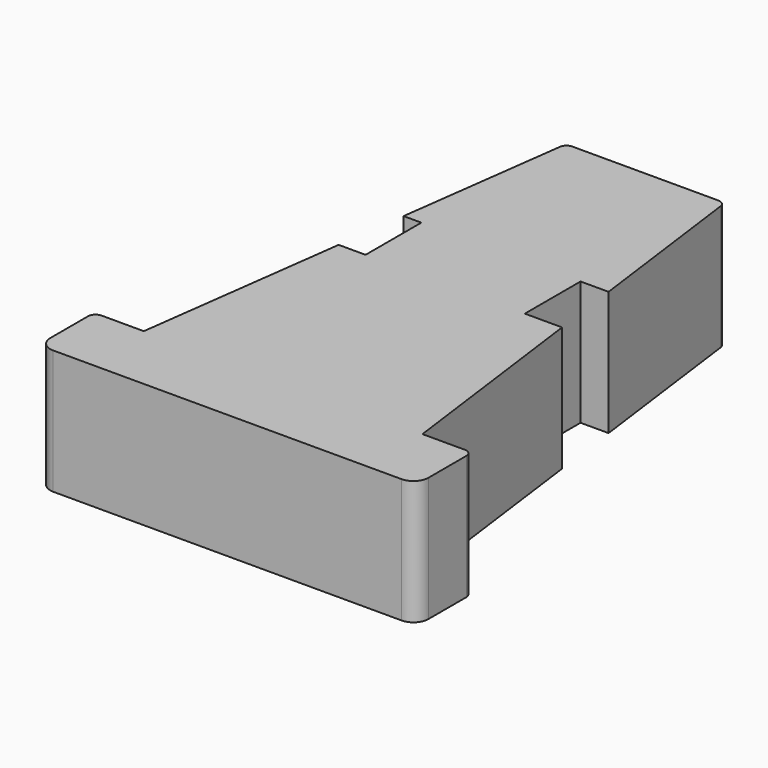
from build123d import *

# Parameters (mm, degrees)
F1_DEPTH = 25


with BuildPart() as f1:
    # F0 (on Top) → F1 (new body)
    with BuildSketch(Plane.XY):
        with BuildLine():
            ThreePointArc((-49.571264, -40.496381), (-48.692584, -42.617702), (-46.571264, -43.496381))
            Line((-46.571264, -43.496381), (-39.571264, -43.496381))
            Line((-39.571264, -43.496381), (-27.571264, -43.496381))
            Line((-27.571264, -43.496381), (-11.571264, -43.496381))
            Line((-11.571264, -43.496381), (-11.571264, 12.504975))
            Line((-11.571264, 12.504975), (-28.604711, 12.504975))
            Line((-28.604711, 12.504975), (-34.020273, 12.504975))
            Line((-34.020273, 12.504975), (-39.571264, -29.496381))
            Line((-39.571264, -29.496381), (-48.071264, -29.496381))
            ThreePointArc((-48.071264, -29.496381), (-49.131924, -29.935721), (-49.571264, -30.996381))
            Line((-49.571264, -30.996381), (-49.571264, -40.496381))
        make_face()
        with BuildLine():
            Line((-11.571264, 12.504975), (-11.571264, -43.496381))
            Line((-11.571264, -43.496381), (4.428736, -43.496381))
            Line((4.428736, -43.496381), (16.428736, -43.496381))
            Line((16.428736, -43.496381), (23.428736, -43.496381))
            ThreePointArc((23.428736, -43.496381), (25.550056, -42.617702), (26.428736, -40.496381))
            Line((26.428736, -40.496381), (26.428736, -30.996381))
            ThreePointArc((26.428736, -30.996381), (25.989396, -29.935721), (24.928736, -29.496381))
            Line((24.928736, -29.496381), (16.428736, -29.496381))
            Line((16.428736, -29.496381), (10.877745, 12.504975))
            Line((10.877745, 12.504975), (3.395289, 12.504975))
            Line((3.395289, 12.504975), (-11.571264, 12.504975))
        make_face()
        with BuildLine():
            Line((-28.604711, 12.504975), (-11.571264, 12.504975))
            Line((-11.571264, 12.504975), (-11.571264, 61.503619))
            Line((-11.571264, 61.503619), (-26.229704, 61.503619))
            ThreePointArc((-26.229704, 61.503619), (-27.21844, 61.131626), (-27.716773, 60.200153))
            Line((-27.716773, 60.200153), (-32.170002, 26.504975))
            Line((-32.170002, 26.504975), (-28.604711, 26.504975))
            Line((-28.604711, 26.504975), (-28.604711, 12.504975))
        make_face()
        Polygon((-11.571264, 61.503619), (-11.571264, 12.504975), (3.395289, 12.504975), (3.395289, 26.504975), (3.087176, 61.503619), align=None)
        with BuildLine():
            ThreePointArc((4.574245, 60.200153), (4.075913, 61.131626), (3.087176, 61.503619))
            Line((3.087176, 61.503619), (3.395289, 26.504975))
            Line((3.395289, 26.504975), (9.027474, 26.504975))
            Line((9.027474, 26.504975), (4.574245, 60.200153))
        make_face()
        with BuildLine():
            ThreePointArc((-49.571264, -40.496381), (-48.692584, -42.617702), (-46.571264, -43.496381))
            Line((-46.571264, -43.496381), (-39.571264, -43.496381))
            Line((-39.571264, -43.496381), (-27.571264, -43.496381))
            Line((-27.571264, -43.496381), (-11.571264, -43.496381))
            Line((-11.571264, -43.496381), (-11.571264, 12.504975))
            Line((-11.571264, 12.504975), (-28.604711, 12.504975))
            Line((-28.604711, 12.504975), (-34.020273, 12.504975))
            Line((-34.020273, 12.504975), (-39.571264, -29.496381))
            Line((-39.571264, -29.496381), (-48.071264, -29.496381))
            ThreePointArc((-48.071264, -29.496381), (-49.131924, -29.935721), (-49.571264, -30.996381))
            Line((-49.571264, -30.996381), (-49.571264, -40.496381))
        make_face()
    extrude(amount=F1_DEPTH)


solid = f1.part
